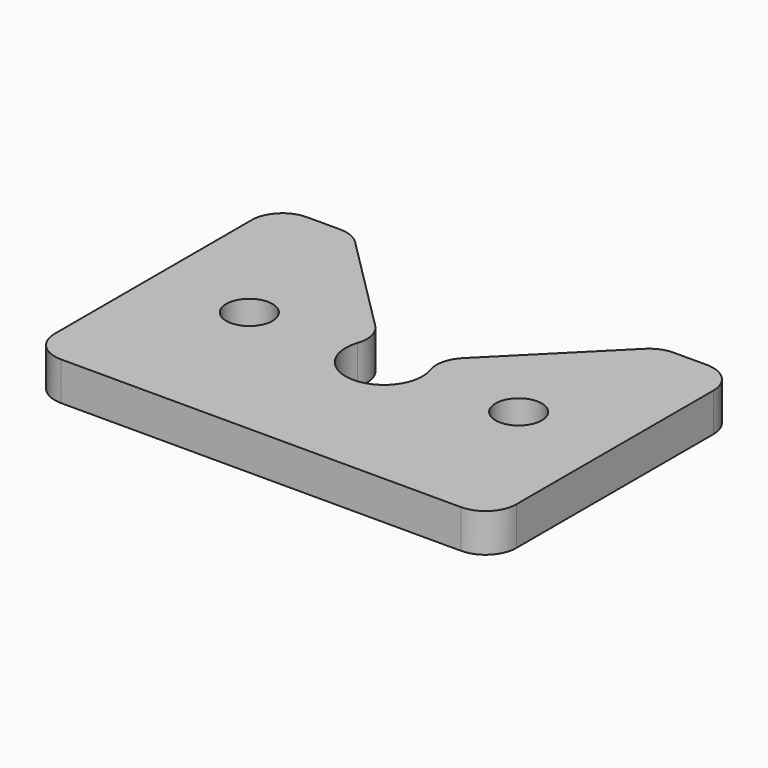
from build123d import *

# Parameters (mm, degrees)
F1_DEPTH = 3.175
F2_R     = 5.08
F3_R     = 3.81
F4_DEPTH = 25.4


with BuildPart() as f1:
    # F0 (on Top) → F1 (new body, symmetric)
    with BuildSketch(Plane.XY):
        with BuildLine():
            Line((-38.1, -25.4), (38.1, -25.4))
            Line((38.1, -25.4), (38.1, 25.4))
            Line((38.1, 25.4), (25.4, 25.4))
            Line((25.4, 25.4), (4.4901280605, 4.4901280605))
            ThreePointArc((4.4901280605, 4.4901280605), (0, -6.35), (-4.4901280605, 4.4901280605))
            Line((-4.4901280605, 4.4901280605), (-25.4, 25.4))
            Line((-25.4, 25.4), (-38.1, 25.4))
            Line((-38.1, 25.4), (-38.1, -25.4))
        make_face()
    extrude(amount=F1_DEPTH, both=True)

    # F2
    f2_edges = [f1.edges().sort_by_distance(p)[0] for p in [
        (4.490128, 4.490128, 0),
        (-4.490128, 4.490128, 0),
        (-25.4, 25.4, 0),
        (-38.1, 25.4, 0),
        (-38.1, -25.4, 0),
        (38.1, 25.4, 0),
        (25.4, 25.4, 0),
        (38.1, -25.4, 0),
    ]]
    fillet(f2_edges, radius=F2_R)

    # F3 (on face) → F4 (cut)
    with BuildSketch(Plane.XY.offset(3.175)):
        with BuildLine():
            ThreePointArc((-26.035, 0), (-22.225, -3.81), (-18.415, 0))
            ThreePointArc((-18.415, 0), (-22.225, 3.81), (-26.035, 0))
        make_face()
        with Locations((22.225, 0)):
            Circle(F3_R)
    extrude(amount=-F4_DEPTH, mode=Mode.SUBTRACT)


solid = f1.part
